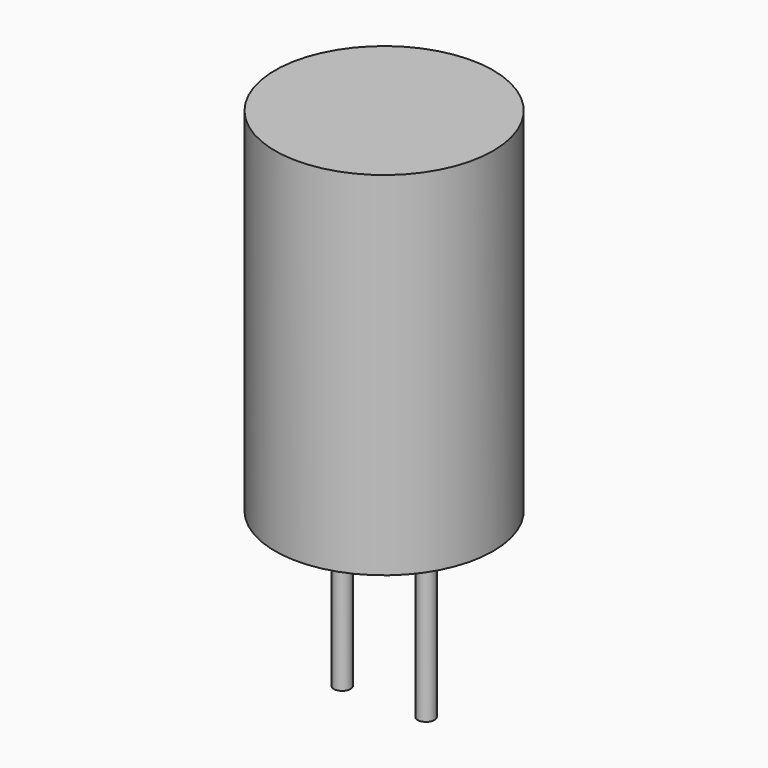
from build123d import *

# Parameters (mm, degrees)
F0_R     = 6.5
F1_DEPTH = 21
F2_R     = 0.5
F3_DEPTH = 10


with BuildPart() as f1:
    # F0 (on Top) → F1 (new body)
    with BuildSketch(Plane.XY):
        Circle(F0_R)
    extrude(amount=F1_DEPTH)

    # F2 (on Top) → F3 (join)
    with BuildSketch(Plane.XY):
        with Locations((-2.5, 0)):
            Circle(F2_R)
        with Locations((2.5, 0)):
            Circle(F2_R)
    extrude(amount=-F3_DEPTH)


solid = f1.part
